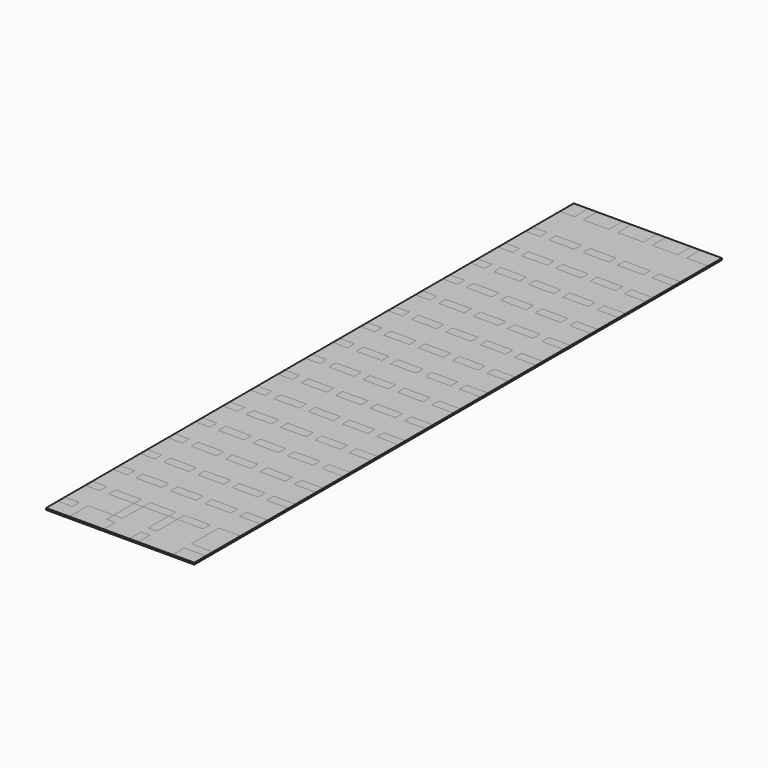
from build123d import *

# Parameters (mm, degrees)
F0_W     = 2133.6
F0_H     = 9499.6
F1_DEPTH = 25.4
F2_W     = 196.85
F2_H     = 127
F2_W_2   = 368.3
F2_W_3   = 127
F2_H_2   = 368.3
F2_W_4   = 311.15
F2_H_3   = 247.65
F2_H_4   = 196.85
F3_DEPTH = 0.000254


with BuildPart() as f1:
    # F0 (on Top) → F1 (new body)
    with BuildSketch(Plane.XY):
        with Locations((1066.8, 4749.8)):
            Rectangle(F0_W, F0_H)
    extrude(amount=F1_DEPTH)

    # F2 (on face) → F3 (join)
    with BuildSketch(Plane.XY.offset(25.4)):
        with Locations((111.125, 273.05)):
            Rectangle(F2_W, F2_H)
        with Locations((520.7, 273.05)):
            Rectangle(F2_W_2, F2_H)
        with Locations((768.35, 520.7)):
            Rectangle(F2_W_3, F2_H_2)
        with Locations((1263.65, 520.7)):
            Rectangle(F2_W_3, F2_H_2)
        with Locations((1978.025, 520.7)):
            Rectangle(F2_W_4, F2_H_2)
        with Locations((111.125, 768.35)):
            Rectangle(F2_W, F2_H)
        with Locations((520.7, 768.35)):
            Rectangle(F2_W_2, F2_H)
        with Locations((1016, 768.35)):
            Rectangle(F2_W_2, F2_H)
        with Locations((1511.3, 768.35)):
            Rectangle(F2_W_2, F2_H)
        with Locations((1978.025, 768.35)):
            Rectangle(F2_W_4, F2_H)
        with Locations((1978.025, 1263.65)):
            Rectangle(F2_W_4, F2_H)
        with Locations((1511.3, 1263.65)):
            Rectangle(F2_W_2, F2_H)
        with Locations((1016, 1263.65)):
            Rectangle(F2_W_2, F2_H)
        with Locations((520.7, 1263.65)):
            Rectangle(F2_W_2, F2_H)
        with Locations((111.125, 1263.65)):
            Rectangle(F2_W, F2_H)
        with Locations((111.125, 1758.95)):
            Rectangle(F2_W, F2_H)
        with Locations((520.7, 1758.95)):
            Rectangle(F2_W_2, F2_H)
        with Locations((1016, 1758.95)):
            Rectangle(F2_W_2, F2_H)
        with Locations((1511.3, 1758.95)):
            Rectangle(F2_W_2, F2_H)
        with Locations((1978.025, 1758.95)):
            Rectangle(F2_W_4, F2_H)
        with Locations((1978.025, 2254.25)):
            Rectangle(F2_W_4, F2_H)
        with Locations((1511.3, 2254.25)):
            Rectangle(F2_W_2, F2_H)
        with Locations((1016, 2254.25)):
            Rectangle(F2_W_2, F2_H)
        with Locations((520.7, 2254.25)):
            Rectangle(F2_W_2, F2_H)
        with Locations((111.125, 2254.25)):
            Rectangle(F2_W, F2_H)
        with Locations((111.125, 2749.55)):
            Rectangle(F2_W, F2_H)
        with Locations((520.7, 2749.55)):
            Rectangle(F2_W_2, F2_H)
        with Locations((1016, 2749.55)):
            Rectangle(F2_W_2, F2_H)
        with Locations((1511.3, 2749.55)):
            Rectangle(F2_W_2, F2_H)
        with Locations((1978.025, 2749.55)):
            Rectangle(F2_W_4, F2_H)
        with Locations((1978.025, 3244.85)):
            Rectangle(F2_W_4, F2_H)
        with Locations((1511.3, 3244.85)):
            Rectangle(F2_W_2, F2_H)
        with Locations((1016, 3244.85)):
            Rectangle(F2_W_2, F2_H)
        with Locations((520.7, 3244.85)):
            Rectangle(F2_W_2, F2_H)
        with Locations((111.125, 3244.85)):
            Rectangle(F2_W, F2_H)
        with Locations((111.125, 3740.15)):
            Rectangle(F2_W, F2_H)
        with Locations((520.7, 3740.15)):
            Rectangle(F2_W_2, F2_H)
        with Locations((1016, 3740.15)):
            Rectangle(F2_W_2, F2_H)
        with Locations((1511.3, 3740.15)):
            Rectangle(F2_W_2, F2_H)
        with Locations((1978.025, 3740.15)):
            Rectangle(F2_W_4, F2_H)
        with Locations((1978.025, 4235.45)):
            Rectangle(F2_W_4, F2_H)
        with Locations((1511.3, 4235.45)):
            Rectangle(F2_W_2, F2_H)
        with Locations((1016, 4235.45)):
            Rectangle(F2_W_2, F2_H)
        with Locations((520.7, 4235.45)):
            Rectangle(F2_W_2, F2_H)
        with Locations((111.125, 4235.45)):
            Rectangle(F2_W, F2_H)
        with Locations((111.125, 4730.75)):
            Rectangle(F2_W, F2_H)
        with Locations((520.7, 4730.75)):
            Rectangle(F2_W_2, F2_H)
        with Locations((1016, 4730.75)):
            Rectangle(F2_W_2, F2_H)
        with Locations((1511.3, 4730.75)):
            Rectangle(F2_W_2, F2_H)
        with Locations((1978.025, 4730.75)):
            Rectangle(F2_W_4, F2_H)
        with Locations((1978.025, 5226.05)):
            Rectangle(F2_W_4, F2_H)
        with Locations((1511.3, 5226.05)):
            Rectangle(F2_W_2, F2_H)
        with Locations((1016, 5226.05)):
            Rectangle(F2_W_2, F2_H)
        with Locations((520.7, 5226.05)):
            Rectangle(F2_W_2, F2_H)
        with Locations((111.125, 5226.05)):
            Rectangle(F2_W, F2_H)
        with Locations((111.125, 5721.35)):
            Rectangle(F2_W, F2_H)
        with Locations((520.7, 5721.35)):
            Rectangle(F2_W_2, F2_H)
        with Locations((1016, 5721.35)):
            Rectangle(F2_W_2, F2_H)
        with Locations((1511.3, 5721.35)):
            Rectangle(F2_W_2, F2_H)
        with Locations((1978.025, 5721.35)):
            Rectangle(F2_W_4, F2_H)
        with Locations((1978.025, 6216.65)):
            Rectangle(F2_W_4, F2_H)
        with Locations((1511.3, 6216.65)):
            Rectangle(F2_W_2, F2_H)
        with Locations((1016, 6216.65)):
            Rectangle(F2_W_2, F2_H)
        with Locations((520.7, 6216.65)):
            Rectangle(F2_W_2, F2_H)
        with Locations((111.125, 6216.65)):
            Rectangle(F2_W, F2_H)
        with Locations((111.125, 6711.95)):
            Rectangle(F2_W, F2_H)
        with Locations((520.7, 6711.95)):
            Rectangle(F2_W_2, F2_H)
        with Locations((1016, 6711.95)):
            Rectangle(F2_W_2, F2_H)
        with Locations((1511.3, 6711.95)):
            Rectangle(F2_W_2, F2_H)
        with Locations((1978.025, 6711.95)):
            Rectangle(F2_W_4, F2_H)
        with Locations((1978.025, 7207.25)):
            Rectangle(F2_W_4, F2_H)
        with Locations((1511.3, 7207.25)):
            Rectangle(F2_W_2, F2_H)
        with Locations((1016, 7207.25)):
            Rectangle(F2_W_2, F2_H)
        with Locations((520.7, 7207.25)):
            Rectangle(F2_W_2, F2_H)
        with Locations((111.125, 7207.25)):
            Rectangle(F2_W, F2_H)
        with Locations((111.125, 7702.55)):
            Rectangle(F2_W, F2_H)
        with Locations((520.7, 7702.55)):
            Rectangle(F2_W_2, F2_H)
        with Locations((1016, 7702.55)):
            Rectangle(F2_W_2, F2_H)
        with Locations((1511.3, 7702.55)):
            Rectangle(F2_W_2, F2_H)
        with Locations((1978.025, 7702.55)):
            Rectangle(F2_W_4, F2_H)
        with Locations((1978.025, 8197.85)):
            Rectangle(F2_W_4, F2_H)
        with Locations((1511.3, 8197.85)):
            Rectangle(F2_W_2, F2_H)
        with Locations((1016, 8197.85)):
            Rectangle(F2_W_2, F2_H)
        with Locations((520.7, 8197.85)):
            Rectangle(F2_W_2, F2_H)
        with Locations((111.125, 8197.85)):
            Rectangle(F2_W, F2_H)
        with Locations((111.125, 8693.15)):
            Rectangle(F2_W, F2_H)
        with Locations((520.7, 8693.15)):
            Rectangle(F2_W_2, F2_H)
        with Locations((1016, 8693.15)):
            Rectangle(F2_W_2, F2_H)
        with Locations((1511.3, 8693.15)):
            Rectangle(F2_W_2, F2_H)
        with Locations((1978.025, 8693.15)):
            Rectangle(F2_W_4, F2_H)
        with Locations((1978.025, 9375.775)):
            Rectangle(F2_W_4, F2_H_3)
        with Locations((1511.3, 9375.775)):
            Rectangle(F2_W_2, F2_H_3)
        with Locations((1016, 9375.775)):
            Rectangle(F2_W_2, F2_H_3)
        with Locations((520.7, 9375.775)):
            Rectangle(F2_W_2, F2_H_3)
        with Locations((111.125, 9375.775)):
            Rectangle(F2_W, F2_H_3)
        with Locations((111.125, 273.05)):
            Rectangle(F2_W, F2_H)
        with Locations((520.7, 111.125)):
            Rectangle(F2_W_2, F2_H_4)
        with Locations((768.35, 111.125)):
            Rectangle(F2_W_3, F2_H_4)
        with Locations((1263.65, 111.125)):
            Rectangle(F2_W_3, F2_H_4)
        with Locations((1978.025, 111.125)):
            Rectangle(F2_W_4, F2_H_4)
    extrude(amount=F3_DEPTH)


solid = f1.part
